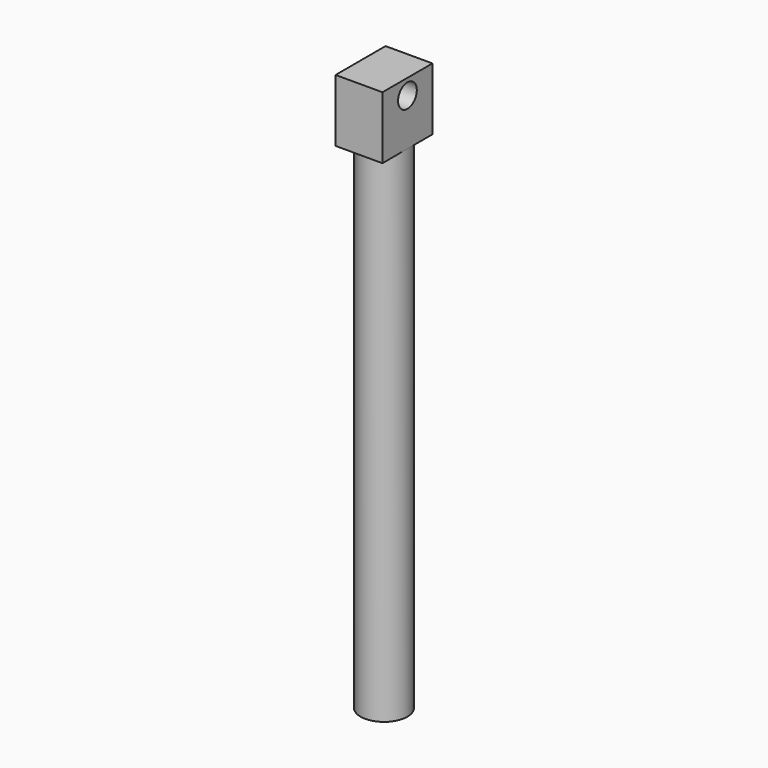
from build123d import *

# Parameters (mm, degrees)
F0_R     = 9.525
F1_DEPTH = 203.2
F2_W     = 19.05
F2_H     = 25.4
F3_DEPTH = 25.4
F4_R     = 4.7625
F5_DEPTH = 19.051


with BuildPart() as f1:
    # F0 (on Top) → F1 (new body)
    with BuildSketch(Plane.XY):
        Circle(F0_R)
    extrude(amount=F1_DEPTH)

    # F2 (on face) → F3 (join)
    with BuildSketch(Plane.XY.offset(203.2)):
        Rectangle(F2_W, F2_H)
    extrude(amount=F3_DEPTH)

    # F4 (on face) → F5 (cut, through all)
    with BuildSketch(Plane.YZ.offset(9.525)):
        with Locations((0, 222.25)):
            Circle(F4_R)
    extrude(amount=-F5_DEPTH, mode=Mode.SUBTRACT)


solid = f1.part
